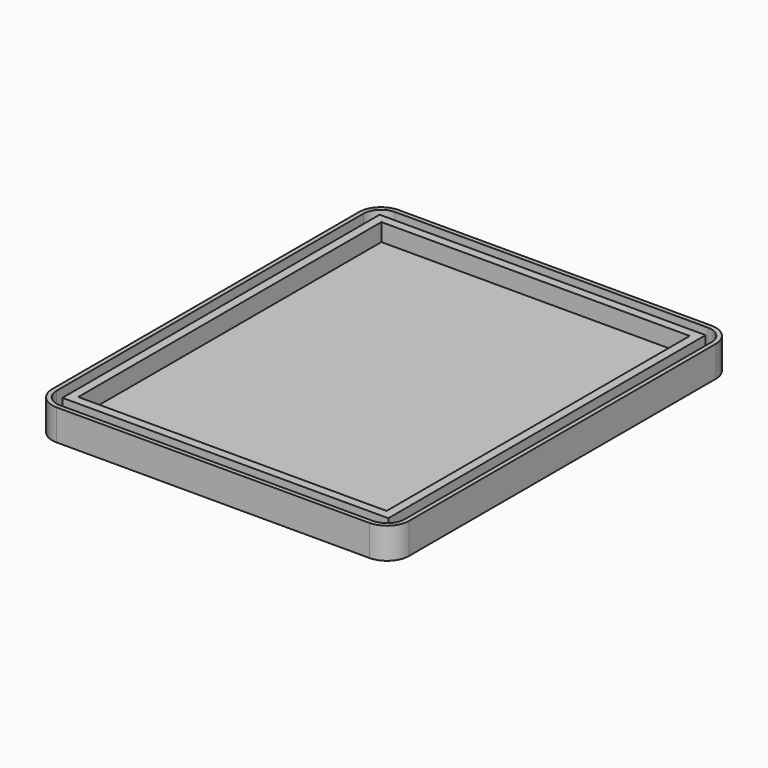
from build123d import *

# Parameters (mm, degrees)
F0_W     = 73.9
F0_H     = 89.9
F0_W_2   = 69.9
F0_H_2   = 85.9
F1_DEPTH = 3
F2_DEPTH = 7
F3_DEPTH = 7


with BuildPart() as f1:
    # F0 (on Top) → F1 (new body)
    with BuildSketch(Plane.XY):
        with BuildLine():
            Line((40.45, -43.45), (40.45, 43.45))
            ThreePointArc((40.45, 43.45), (38.9855339059, 46.9855339059), (35.45, 48.45))
            Line((35.45, 48.45), (-35.45, 48.45))
            ThreePointArc((-35.45, 48.45), (-38.9855339059, 46.9855339059), (-40.45, 43.45))
            Line((-40.45, 43.45), (-40.45, -43.45))
            ThreePointArc((-40.45, -43.45), (-38.9855339059, -46.9855339059), (-35.45, -48.45))
            Line((-35.45, -48.45), (35.45, -48.45))
            ThreePointArc((35.45, -48.45), (38.9855339059, -46.9855339059), (40.45, -43.45))
        make_face()
        with BuildLine():
            ThreePointArc((-39.45, 43.45), (-38.2784271247, 46.2784271247), (-35.45, 47.45))
            Line((-35.45, 47.45), (35.45, 47.45))
            ThreePointArc((35.45, 47.45), (38.2784271247, 46.2784271247), (39.45, 43.45))
            Line((39.45, 43.45), (39.45, -43.45))
            ThreePointArc((39.45, -43.45), (38.2784271247, -46.2784271247), (35.45, -47.45))
            Line((35.45, -47.45), (-35.45, -47.45))
            ThreePointArc((-35.45, -47.45), (-38.2784271247, -46.2784271247), (-39.45, -43.45))
            Line((-39.45, -43.45), (-39.45, 43.45))
        make_face(mode=Mode.SUBTRACT)
        with BuildLine():
            Line((35.45, 47.45), (-35.45, 47.45))
            ThreePointArc((-35.45, 47.45), (-38.2784271247, 46.2784271247), (-39.45, 43.45))
            Line((-39.45, 43.45), (-39.45, -43.45))
            ThreePointArc((-39.45, -43.45), (-38.2784271247, -46.2784271247), (-35.45, -47.45))
            Line((-35.45, -47.45), (35.45, -47.45))
            ThreePointArc((35.45, -47.45), (38.2784271247, -46.2784271247), (39.45, -43.45))
            Line((39.45, -43.45), (39.45, 43.45))
            ThreePointArc((39.45, 43.45), (38.2784271247, 46.2784271247), (35.45, 47.45))
        make_face()
        Rectangle(F0_W, F0_H, mode=Mode.SUBTRACT)
        Rectangle(F0_W, F0_H)
        Rectangle(F0_W_2, F0_H_2, mode=Mode.SUBTRACT)
        Rectangle(F0_W_2, F0_H_2)
    extrude(amount=F1_DEPTH)

    # F0 (on Top) → F2 (join)
    with BuildSketch(Plane.XY):
        with BuildLine():
            Line((40.45, -43.45), (40.45, 43.45))
            ThreePointArc((40.45, 43.45), (38.9855339059, 46.9855339059), (35.45, 48.45))
            Line((35.45, 48.45), (-35.45, 48.45))
            ThreePointArc((-35.45, 48.45), (-38.9855339059, 46.9855339059), (-40.45, 43.45))
            Line((-40.45, 43.45), (-40.45, -43.45))
            ThreePointArc((-40.45, -43.45), (-38.9855339059, -46.9855339059), (-35.45, -48.45))
            Line((-35.45, -48.45), (35.45, -48.45))
            ThreePointArc((35.45, -48.45), (38.9855339059, -46.9855339059), (40.45, -43.45))
        make_face()
        with BuildLine():
            ThreePointArc((-39.45, 43.45), (-38.2784271247, 46.2784271247), (-35.45, 47.45))
            Line((-35.45, 47.45), (35.45, 47.45))
            ThreePointArc((35.45, 47.45), (38.2784271247, 46.2784271247), (39.45, 43.45))
            Line((39.45, 43.45), (39.45, -43.45))
            ThreePointArc((39.45, -43.45), (38.2784271247, -46.2784271247), (35.45, -47.45))
            Line((35.45, -47.45), (-35.45, -47.45))
            ThreePointArc((-35.45, -47.45), (-38.2784271247, -46.2784271247), (-39.45, -43.45))
            Line((-39.45, -43.45), (-39.45, 43.45))
        make_face(mode=Mode.SUBTRACT)
    extrude(amount=F2_DEPTH)

    # F0 (on Top) → F3 (join)
    with BuildSketch(Plane.XY):
        Rectangle(F0_W, F0_H)
        Rectangle(F0_W_2, F0_H_2, mode=Mode.SUBTRACT)
    extrude(amount=F3_DEPTH)


solid = f1.part
